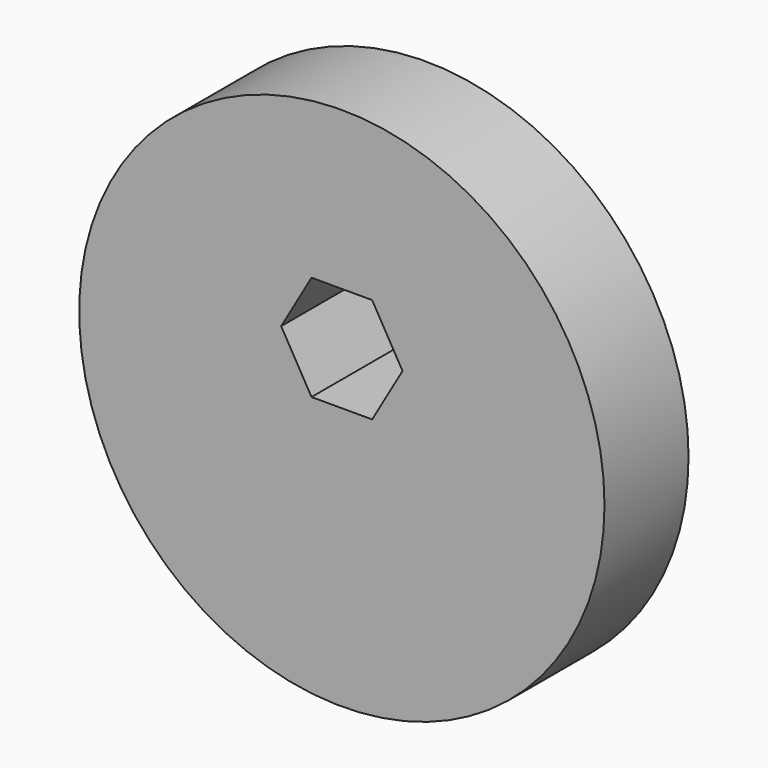
from build123d import *

# Parameters (mm, degrees)
F0_R     = 31.75
F1_DEPTH = 12.7


with BuildPart() as f1:
    # F0 (on Front) → F1 (new body)
    with BuildSketch(Plane.XZ):
        with Locations((0, -6.35)):
            Circle(F0_R)
        Polygon((-3.666174, -6.35), (-7.332348, 0), (-3.666174, 6.35), (3.666174, 6.35), (7.332348, 0), (3.666174, -6.35), align=None, mode=Mode.SUBTRACT)
    extrude(amount=F1_DEPTH)


solid = f1.part
